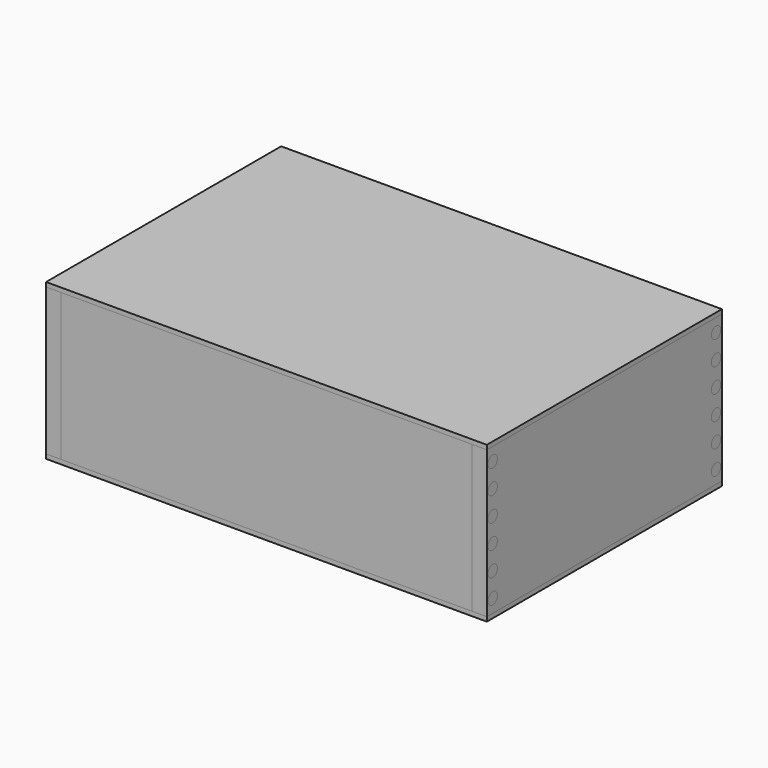
from build123d import *

# Parameters (mm, degrees)
SKETCH_W         = 300
SKETCH_H         = 200
PAD_DEPTH        = 3
ARRAY002_Z_COUNT = 2
ARRAY002_Z_PITCH = 103
SKETCH008_R      = 4
PAD009_DEPTH     = 10
ARRAY005_X_COUNT = 2
ARRAY005_X_PITCH = 290
ARRAY005_Z_COUNT = 6
ARRAY005_Z_PITCH = 16.4
SKETCH009_R      = 4
PAD008_DEPTH     = 10
ARRAY006_X_COUNT = 2
ARRAY006_X_PITCH = 290
ARRAY006_Z_COUNT = 6
ARRAY006_Z_PITCH = 16.4
SKETCH007_R      = 4
PAD007_DEPTH     = 10
ARRAY001_X_COUNT = 2
ARRAY001_X_PITCH = 290
ARRAY001_Z_COUNT = 6
ARRAY001_Z_PITCH = 16.4
SKETCH006_R      = 4
PAD006_DEPTH     = 10
ARRAY_X_COUNT    = 2
ARRAY_X_PITCH    = 290
ARRAY_Z_COUNT    = 6
ARRAY_Z_PITCH    = 16.4
SKETCH002_W      = 200
SKETCH002_H      = 100
PAD002_DEPTH     = 10
ARRAY003_X_COUNT = 2
ARRAY003_X_PITCH = 290
SKETCH010_W      = 10
SKETCH010_H      = 100
PAD010_DEPTH     = 10
ARRAY007_X_COUNT = 2
ARRAY007_X_PITCH = 290
ARRAY007_Y_COUNT = 2
ARRAY007_Y_PITCH = 190
SKETCH004_W      = 300
SKETCH004_H      = 100
PAD004_DEPTH     = 10
ARRAY004_Y_COUNT = 2
ARRAY004_Y_PITCH = 190


with BuildPart() as array_covers:
    # Sketch → Pad (new body)
    with BuildSketch(Plane.XY):
        with Locations((150, 100)):
            Rectangle(SKETCH_W, SKETCH_H)
    extrude(amount=-PAD_DEPTH)

    # Array002 Z: Array, Covers ×2


with BuildPart() as array_covers_1:
    add(array_covers.part)
    with Locations(*[(0, 0, i * ARRAY002_Z_PITCH) for i in range(1, ARRAY002_Z_COUNT)]):
        add(array_covers.part)


with BuildPart() as array_joints_dowels_back:
    # Sketch008 → Pad009 (new body)
    with BuildSketch(Plane(origin=(0, 200, 0), x_dir=(0, 1, 0), z_dir=(1, 0, 0))):
        with Locations((-5, 9)):
            Circle(SKETCH008_R)
    extrude(amount=PAD009_DEPTH)

    # Array005 X: Array, Joints, Dowels, Back ×2


with BuildPart() as array_joints_dowels_back_1:
    add(array_joints_dowels_back.part)
    with Locations(*[(i * ARRAY005_X_PITCH, 0, 0) for i in range(1, ARRAY005_X_COUNT)]):
        add(array_joints_dowels_back.part)

    # Array005 Z: Array, Joints, Dowels, Back ×6


with BuildPart() as array_joints_dowels_back_2:
    add(array_joints_dowels_back_1.part)
    with Locations(*[(0, 0, i * ARRAY005_Z_PITCH) for i in range(1, ARRAY005_Z_COUNT)]):
        add(array_joints_dowels_back_1.part)


with BuildPart() as array_joints_dowels_front:
    # Sketch009 → Pad008 (new body)
    with BuildSketch(Plane.YZ):
        with Locations((5, 9)):
            Circle(SKETCH009_R)
    extrude(amount=PAD008_DEPTH)

    # Array006 X: Array, Joints, Dowels, Front ×2


with BuildPart() as array_joints_dowels_front_1:
    add(array_joints_dowels_front.part)
    with Locations(*[(i * ARRAY006_X_PITCH, 0, 0) for i in range(1, ARRAY006_X_COUNT)]):
        add(array_joints_dowels_front.part)

    # Array006 Z: Array, Joints, Dowels, Front ×6


with BuildPart() as array_joints_dowels_front_2:
    add(array_joints_dowels_front_1.part)
    with Locations(*[(0, 0, i * ARRAY006_Z_PITCH) for i in range(1, ARRAY006_Z_COUNT)]):
        add(array_joints_dowels_front_1.part)


with BuildPart() as array_joints_cut_back:
    # Sketch007 → Pad007 (new body)
    with BuildSketch(Plane(origin=(0, 200, 0), x_dir=(0, 1, 0), z_dir=(1, 0, 0))):
        with Locations((-5, 9)):
            Circle(SKETCH007_R)
    extrude(amount=PAD007_DEPTH)

    # Array001 X: Array, Joints, Cut, Back ×2


with BuildPart() as array_joints_cut_back_1:
    add(array_joints_cut_back.part)
    with Locations(*[(i * ARRAY001_X_PITCH, 0, 0) for i in range(1, ARRAY001_X_COUNT)]):
        add(array_joints_cut_back.part)

    # Array001 Z: Array, Joints, Cut, Back ×6


with BuildPart() as array_joints_cut_back_2:
    add(array_joints_cut_back_1.part)
    with Locations(*[(0, 0, i * ARRAY001_Z_PITCH) for i in range(1, ARRAY001_Z_COUNT)]):
        add(array_joints_cut_back_1.part)


with BuildPart() as fusion:
    # Sketch006 → Pad006 (new body)
    with BuildSketch(Plane.YZ):
        with Locations((5, 9)):
            Circle(SKETCH006_R)
    extrude(amount=PAD006_DEPTH)

    # Array X: Fusion ×2


with BuildPart() as fusion_1:
    add(fusion.part)
    with Locations(*[(i * ARRAY_X_PITCH, 0, 0) for i in range(1, ARRAY_X_COUNT)]):
        add(fusion.part)

    # Array Z: Fusion ×6


with BuildPart() as fusion_2:
    add(fusion_1.part)
    with Locations(*[(0, 0, i * ARRAY_Z_PITCH) for i in range(1, ARRAY_Z_COUNT)]):
        add(fusion_1.part)

    # Fusion: union Array, Joints, Cut, Back
    add(array_joints_cut_back_2.part)


with BuildPart() as sides_cut:
    # Sketch002 → Pad002 (new body)
    with BuildSketch(Plane.YZ):
        with Locations((100, 50)):
            Rectangle(SKETCH002_W, SKETCH002_H)
    extrude(amount=PAD002_DEPTH)

    # Array003 X: Sides, cut ×2


with BuildPart() as sides_cut_1:
    add(sides_cut.part)
    with Locations(*[(i * ARRAY003_X_PITCH, 0, 0) for i in range(1, ARRAY003_X_COUNT)]):
        add(sides_cut.part)

    # Cut: cut Fusion
    add(fusion_2.part, mode=Mode.SUBTRACT)


with BuildPart() as array_boxcut:
    # Sketch010 → Pad010 (new body)
    with BuildSketch(Plane.YZ):
        with Locations((5, 50)):
            Rectangle(SKETCH010_W, SKETCH010_H)
    extrude(amount=PAD010_DEPTH)

    # Array007 X: Array, BoxCut ×2


with BuildPart() as array_boxcut_1:
    add(array_boxcut.part)
    with Locations(*[(i * ARRAY007_X_PITCH, 0, 0) for i in range(1, ARRAY007_X_COUNT)]):
        add(array_boxcut.part)

    # Array007 Y: Array, BoxCut ×2


with BuildPart() as array_boxcut_2:
    add(array_boxcut_1.part)
    with Locations(*[(0, i * ARRAY007_Y_PITCH, 0) for i in range(1, ARRAY007_Y_COUNT)]):
        add(array_boxcut_1.part)


with BuildPart() as fronts_cut:
    # Sketch004 → Pad004 (new body)
    with BuildSketch(Plane.XZ):
        with Locations((150, 50)):
            Rectangle(SKETCH004_W, SKETCH004_H)
    extrude(amount=-PAD004_DEPTH)

    # Array004 Y: Fronts, cut ×2


with BuildPart() as fronts_cut_1:
    add(fronts_cut.part)
    with Locations(*[(0, i * ARRAY004_Y_PITCH, 0) for i in range(1, ARRAY004_Y_COUNT)]):
        add(fronts_cut.part)

    # Cut001: cut Array, BoxCut
    add(array_boxcut_2.part, mode=Mode.SUBTRACT)


solid = Compound([array_covers_1.part, array_joints_dowels_back_2.part, array_joints_dowels_front_2.part, sides_cut_1.part, fronts_cut_1.part])
